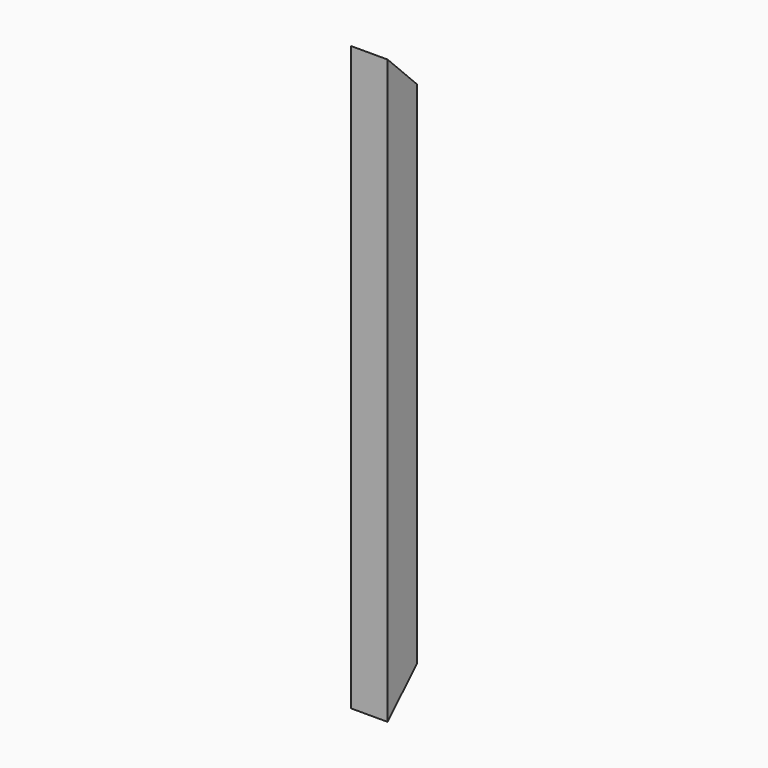
from build123d import *

# Parameters (mm, degrees)
F0_W     = 38.1
F0_H     = 38.1
F0_W_2   = 28.5496
F0_H_2   = 28.5496
F1_DEPTH = 609.6
F3_DEPTH = 38.101
F4_DEPTH = 38.101


with BuildPart() as f1:
    # F0 (on Top) → F1 (new body)
    with BuildSketch(Plane.XY):
        Rectangle(F0_W, F0_H)
        Rectangle(F0_W_2, F0_H_2, mode=Mode.SUBTRACT)
    extrude(amount=F1_DEPTH)

    # F2 (on face) → F3 (cut, through all)
    with BuildSketch(Plane.YZ.offset(19.05)):
        Polygon((19.05, 38.1), (-19.05, 0), (19.05, 0), align=None)
    extrude(amount=-F3_DEPTH, mode=Mode.SUBTRACT)

    # F2 (on face) → F4 (cut, through all)
    with BuildSketch(Plane.YZ.offset(19.05)):
        Polygon((19.05, 609.6), (-19.05, 609.6), (19.05, 571.5), align=None)
    extrude(amount=-F4_DEPTH, mode=Mode.SUBTRACT)


solid = f1.part
